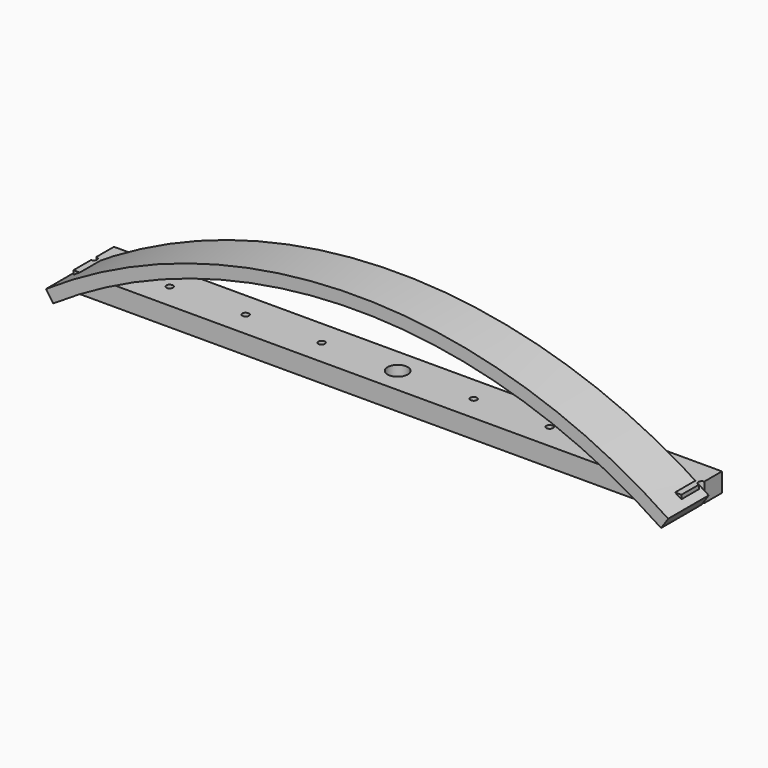
from build123d import *

# Parameters (mm, degrees)
F1_DEPTH = 203.2
F5_W     = 2438.4
F5_H     = 203.2
F5_R     = 40.4299269337
F6_DEPTH = 76.2
F7_D     = 26.19502
F8_D     = 26.19502
F9_D     = 26.19502
F10_D    = 26.19502
F11_D    = 26.19502
F12_D    = 26.19502
F13_D    = 26.19502
F14_D    = 26.19502


with BuildPart() as f1:
    # F0 (on Front) → F1 (new body)
    with BuildSketch(Plane.XZ):
        with BuildLine():
            ThreePointArc((-1219.2, 0), (0, 372.164270083), (1219.2, 0))
            Line((1219.2, 0), (1247.5701760273, 42.1399230206))
            ThreePointArc((1247.5701760273, 42.1399230206), (0, 422.964270083), (-1247.5701760273, 42.1399230206))
            Line((-1247.5701760273, 42.1399230206), (-1219.2, 0))
        make_face()
    extrude(amount=F1_DEPTH)


with BuildPart() as f6:
    # F5 (on Top) → F6 (new body)
    with BuildSketch(Plane.XY):
        Rectangle(F5_W, F5_H)
        Circle(F5_R, mode=Mode.SUBTRACT)
    extrude(amount=F6_DEPTH)

    # F7 (through all)
    with Locations(Plane(origin=(0, 0, 0), x_dir=(1, 0, 0), z_dir=(0, 0, -1))):
        with Locations((-914.4, 0)):
            Hole(F7_D / 2)

    # F8 (through all)
    with Locations(Plane(origin=(0, 0, 0), x_dir=(1, 0, 0), z_dir=(0, 0, -1))):
        with Locations((-609.6, 0)):
            Hole(F8_D / 2)

    # F9 (through all)
    with Locations(Plane(origin=(0, 0, 0), x_dir=(1, 0, 0), z_dir=(0, 0, -1))):
        with Locations((-304.8, 0)):
            Hole(F9_D / 2)

    # F10 (through all)
    with Locations(Plane(origin=(0, 0, 0), x_dir=(1, 0, 0), z_dir=(0, 0, -1))):
        with Locations((304.8, 0)):
            Hole(F10_D / 2)

    # F11 (through all)
    with Locations(Plane(origin=(0, 0, 0), x_dir=(1, 0, 0), z_dir=(0, 0, -1))):
        with Locations((609.6, 0)):
            Hole(F11_D / 2)

    # F12 (through all)
    with Locations(Plane(origin=(0, 0, 0), x_dir=(1, 0, 0), z_dir=(0, 0, -1))):
        with Locations((914.4, 0)):
            Hole(F12_D / 2)

    # F13 (through all)
    with Locations(Plane(origin=(0, 0, 0), x_dir=(1, 0, 0), z_dir=(0, 0, -1))):
        with Locations((1219.2, 0)):
            Hole(F13_D / 2)

    # F14 (through all)
    with Locations(Plane(origin=(0, 0, 0), x_dir=(1, 0, 0), z_dir=(0, 0, -1))):
        with Locations((-1219.2, 0)):
            Hole(F14_D / 2)


solid = Compound([f1.part, f6.part])
